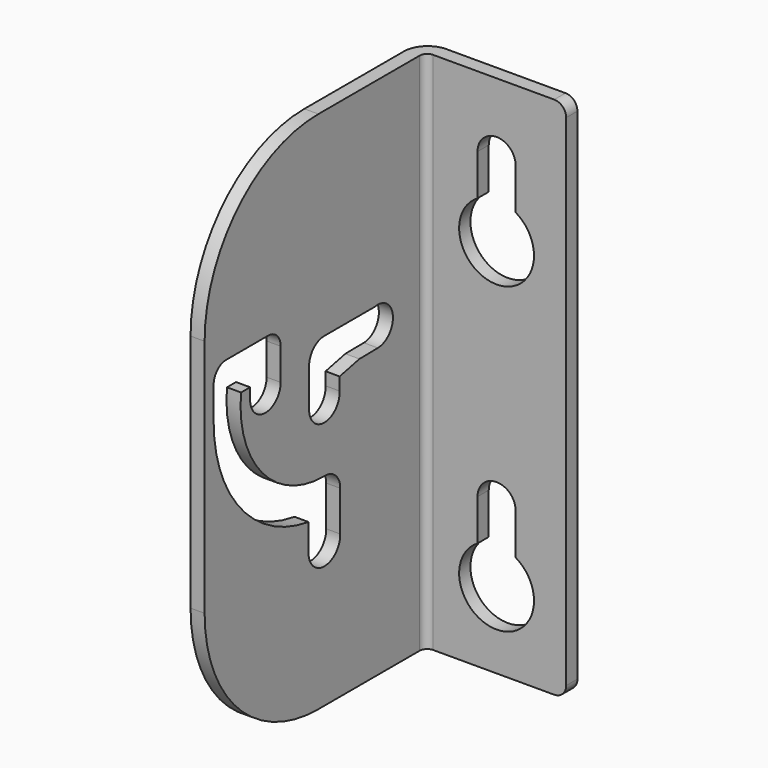
from build123d import *

# Parameters (mm, degrees)
F1_DEPTH = 177.8
F3_DEPTH = 98.553
F5_DEPTH = 52.452


with BuildPart() as f1:
    # F0 (on Top) → F1 (new body)
    with BuildSketch(Plane.XY):
        with BuildLine():
            Line((52.451, 0), (8.001, 0))
            ThreePointArc((8.001, 0), (2.343439, -2.343439), (0, -8.001))
            Line((0, -8.001), (0, -98.552))
            Line((0, -98.552), (4.7752, -98.552))
            Line((4.7752, -98.552), (4.7752, -7.3152))
            ThreePointArc((4.7752, -7.3152), (5.519149, -5.519149), (7.3152, -4.7752))
            Line((7.3152, -4.7752), (52.451, -4.7752))
            Line((52.451, -4.7752), (52.451, 0))
        make_face()
    extrude(amount=F1_DEPTH)

    # F2 (on face) → F3 (cut, through all)
    with BuildSketch(Plane(origin=(0, 0, 0), x_dir=(-1, 0, 0), z_dir=(0, 1, 0))):
        with BuildLine():
            ThreePointArc((-52.451, 173.736), (-51.260682, 176.609682), (-48.387, 177.8))
            Line((-48.387, 177.8), (-52.451, 177.8))
            Line((-52.451, 177.8), (-52.451, 173.736))
        make_face()
        with BuildLine():
            ThreePointArc((-48.387, 0), (-51.260682, 1.190318), (-52.451, 4.064))
            Line((-52.451, 4.064), (-52.451, 0))
            Line((-52.451, 0), (-48.387, 0))
        make_face()
        with BuildLine():
            Line((-35.306, 50.6984), (-35.306, 36.730615))
            ThreePointArc((-35.306, 36.730615), (-39.864123, 32.092579), (-41.529, 25.8064))
            ThreePointArc((-41.529, 25.8064), (-22.542821, 14.771277), (-22.352, 36.730615))
            Line((-22.352, 36.730615), (-22.352, 50.6984))
            ThreePointArc((-22.352, 50.6984), (-28.829, 57.1754), (-35.306, 50.6984))
        make_face()
        with BuildLine():
            Line((-35.306, 153.797), (-35.306, 139.829215))
            ThreePointArc((-35.306, 139.829215), (-39.864123, 135.191179), (-41.529, 128.905))
            ThreePointArc((-41.529, 128.905), (-22.542821, 117.869877), (-22.352, 139.829215))
            Line((-22.352, 139.829215), (-22.352, 153.797))
            ThreePointArc((-22.352, 153.797), (-28.829, 160.274), (-35.306, 153.797))
        make_face()
    extrude(amount=-F3_DEPTH, mode=Mode.SUBTRACT)

    # F4 (on face) → F5 (cut, through all)
    with BuildSketch(Plane(origin=(0, 0, 0), x_dir=(0, -1, 0), z_dir=(-1, 0, 0))):
        with BuildLine():
            ThreePointArc((92.15891, 119.504907), (94.091728, 111.930262), (94.742, 104.14))
            Line((94.742, 104.14), (94.742, 114.935))
            ThreePointArc((94.742, 114.935), (94.051539, 117.55971), (92.15891, 119.504907))
        make_face()
        with BuildLine():
            Line((54.229, 91.059), (54.229, 104.14))
            ThreePointArc((54.229, 104.14), (52.369128, 108.630128), (47.879, 110.49))
            Line((47.879, 110.49), (26.422334, 110.49))
            ThreePointArc((26.422334, 110.49), (18.705275, 104.824536), (25.059111, 97.663583))
            Line((25.059111, 97.663583), (32.901534, 97.558367))
            Line((32.901534, 97.558367), (41.283534, 95.742102))
            Line((41.283534, 95.742102), (41.283534, 91.391388))
            ThreePointArc((41.283534, 91.391388), (47.585751, 84.584134), (54.229, 91.059))
        make_face()
        with BuildLine():
            ThreePointArc((54.483, 57.635603), (83.279054, 73.385138), (94.742, 104.14))
            ThreePointArc((94.742, 104.14), (94.091728, 111.930262), (92.15891, 119.504907))
            ThreePointArc((92.15891, 119.504907), (90.835528, 120.074428), (89.408, 120.269))
            Line((89.408, 120.269), (71.628, 120.269))
            ThreePointArc((71.628, 120.269), (67.856292, 118.706708), (66.294, 114.935))
            Line((66.294, 114.935), (66.294, 104.14))
            Line((66.294, 104.14), (72.771, 104.14))
            Line((72.771, 104.14), (79.248, 104.14))
            Line((79.248, 104.14), (79.248, 107.95))
            Line((79.248, 107.95), (83.107304, 107.95))
            ThreePointArc((83.107304, 107.95), (74.209487, 80.380476), (47.752, 68.58))
            Line((47.752, 68.58), (47.373243, 68.58))
            ThreePointArc((47.373243, 68.58), (42.883115, 66.720128), (41.023243, 62.23))
            Line((41.023243, 62.23), (41.023243, 48.564316))
            ThreePointArc((41.023243, 48.564316), (47.665111, 41.660113), (54.483, 48.390552))
            Line((54.483, 48.390552), (54.483, 57.635603))
        make_face()
        with BuildLine():
            Line((72.771, 104.14), (66.294, 104.14))
            ThreePointArc((66.294, 104.14), (72.771, 97.663), (79.248, 104.14))
            Line((79.248, 104.14), (72.771, 104.14))
        make_face()
        with BuildLine():
            Line((98.552, 0), (98.552, 48.26))
            ThreePointArc((98.552, 48.26), (84.416973, 14.135027), (50.292, 0))
            Line((50.292, 0), (98.552, 0))
        make_face()
        with BuildLine():
            Line((98.552, 177.8), (50.292, 177.8))
            ThreePointArc((50.292, 177.8), (84.416973, 163.664973), (98.552, 129.54))
            Line((98.552, 129.54), (98.552, 177.8))
        make_face()
    extrude(amount=-F5_DEPTH, mode=Mode.SUBTRACT)


solid = f1.part
